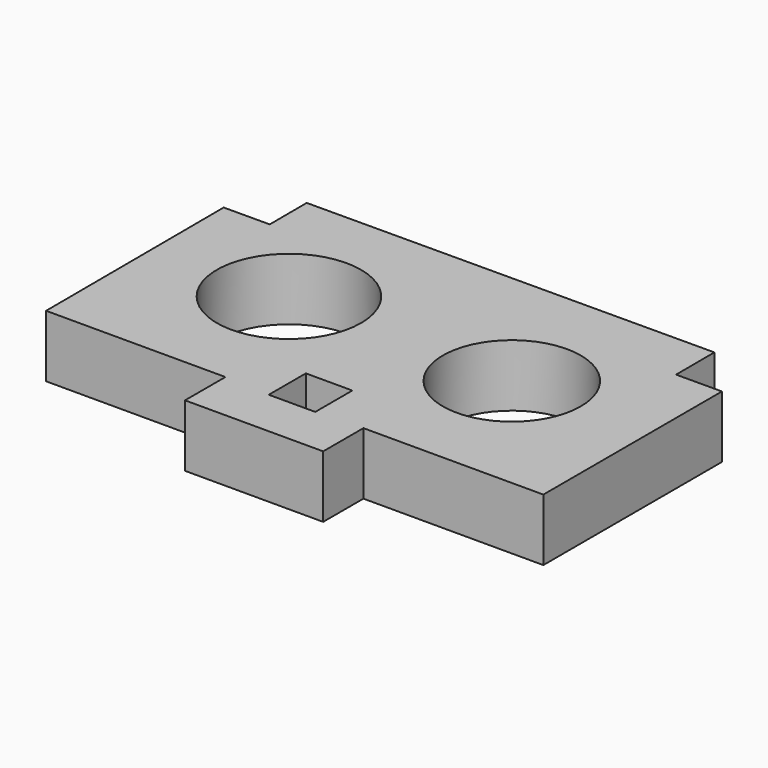
from build123d import *

# Parameters (mm, degrees)
F0_W     = 3.802484
F0_H     = 3.789879
F0_R     = 5.898299
F0_R_2   = 5.641927
F1_DEPTH = 5.08


with BuildPart() as f1:
    # F0 (on Top) → F1 (new body)
    with BuildSketch(Plane.XY):
        Polygon((-22.236187, 38.231415), (-22.170134, 19.986793), (-7.499151, 19.986793), (-7.499151, 15.856959), (3.802496, 15.856959), (3.802496, 19.973662), (18.522065, 19.973662), (18.516089, 38.244495), (14.776404, 38.230956), (14.762164, 42.164024), (-18.492659, 42.043628), (-18.478907, 38.245018), align=None)
        with Locations((-1.901242, 21.697651)):
            Rectangle(F0_W, F0_H, mode=Mode.SUBTRACT)
        with Locations((-11.294943, 31.230975)):
            Circle(F0_R, mode=Mode.SUBTRACT)
        with Locations((7.124271, 30.996235)):
            Circle(F0_R_2, mode=Mode.SUBTRACT)
    extrude(amount=F1_DEPTH)


solid = f1.part
